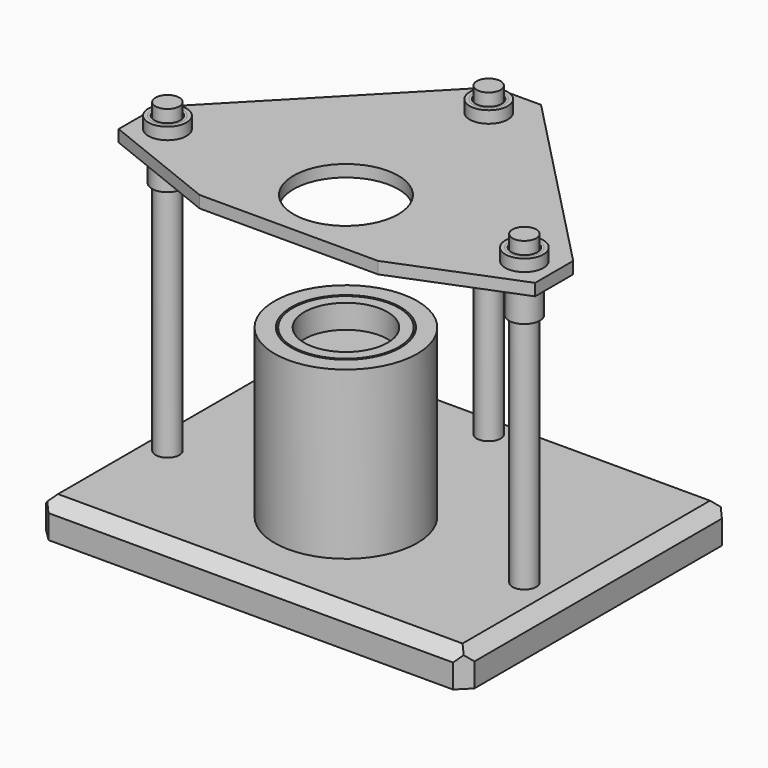
from build123d import *

# Parameters (mm, degrees)
F0_W           = 180
F0_H           = 140
F1_DEPTH       = 15
F2_R           = 11
F3_DEPTH       = 10
F4_R           = 3
F5_DEPTH       = 15
F6_R           = 7.5
F7_DEPTH       = 10
F9_START       = 130
F8_R           = 6.5
F8_R_2         = 22
F9_DEPTH       = 5
F10_W          = 2
F10_H          = 0.5
F13_START      = 1
F12_R          = 30
F13_DEPTH      = 70
F14_R          = 7.25
F15_DEPTH      = 10
F16_R          = 23
F17_DEPTH      = 60
F18_R          = 6.5
F18_R_2        = 5.5
F19_DEPTH      = 5
F19_DEPTH_BACK = 20
F20_SIZE       = 5
F21_SIZE       = 5
F22_R          = 8
F22_R_2        = 6.5
F23_DEPTH      = 5
F24_R          = 22.25
F25_DEPTH      = 30
F26_R          = 17.5
F27_DEPTH      = 10
F28_R          = 7.5
F29_DEPTH      = 15
F31_START      = 1
F30_R          = 5
F31_DEPTH      = 129


with BuildPart() as f1:
    # F0 (on Top) → F1 (new body)
    with BuildSketch(Plane.XY):
        with Locations((0, 20)):
            Rectangle(F0_W, F0_H)
    extrude(amount=F1_DEPTH)

    # F2 (on face) → F3 (cut)
    with BuildSketch(Plane.XY):
        with Locations((-75, 0)):
            Circle(F2_R)
        with Locations((0, 75)):
            Circle(F2_R)
        with Locations((75, 0)):
            Circle(F2_R)
    extrude(amount=F3_DEPTH, mode=Mode.SUBTRACT)

    # F4 (on face) → F5 (cut, through all)
    with BuildSketch(Plane.XY):
        with Locations((-75, 0)):
            Circle(F4_R)
        with Locations((0, 75)):
            Circle(F4_R)
        with Locations((75, 0)):
            Circle(F4_R)
    extrude(amount=F5_DEPTH, mode=Mode.SUBTRACT)

    # F6 (on face) → F7 (cut)
    with BuildSketch(Plane.XY.offset(15)):
        Circle(F6_R)
    extrude(amount=-F7_DEPTH, mode=Mode.SUBTRACT)

    # F20
    f20_edges = [f1.edges().sort_by_distance(p)[0] for p in [
        (0, -50, 15),
        (90, 20, 15),
        (0, 90, 15),
        (-90, 20, 15),
    ]]
    chamfer(f20_edges, length=F20_SIZE)

    # F21
    f21_edges = [f1.edges().sort_by_distance(p)[0] for p in [
        (90, -50, 5),
        (90, 90, 5),
        (-90, -50, 5),
        (-90, 90, 5),
    ]]
    chamfer(f21_edges, length=F21_SIZE)


with BuildPart() as f9:
    # F8 (on Top) → F9 (new body)
    with BuildSketch(Plane.XY.offset(F9_START)):
        Polygon((-37.5, -30), (37.5, -30), (87.5, -10), (87.5, 10), (10, 90), (-10, 90), (-87.5, 10), (-87.5, -10), align=None)
        with Locations((-75, 0)):
            Circle(F8_R, mode=Mode.SUBTRACT)
        Circle(F8_R_2, mode=Mode.SUBTRACT)
        with Locations((75, 0)):
            Circle(F8_R, mode=Mode.SUBTRACT)
        with Locations((0, 75)):
            Circle(F8_R, mode=Mode.SUBTRACT)
    extrude(amount=F9_DEPTH)

    # F10 (on Front) → F11 (revolve, cut)
    with BuildSketch(Plane.XZ):
        with Locations((-25.5, 130.25)):
            Rectangle(F10_W, F10_H)
    revolve(axis=Axis((0, 0, 97.1393696964), (0, 0, 1)), mode=Mode.SUBTRACT)


with BuildPart() as f13:
    # F12 (on face) → F13 (new body)
    with BuildSketch(Plane.XY.offset(15).offset(F13_START)):
        Circle(F12_R)
    extrude(amount=F13_DEPTH)

    # F14 (on face) → F15 (join)
    with BuildSketch(Plane(origin=(0, 0, 16), x_dir=(1, 0, 0), z_dir=(0, 0, -1))):
        Circle(F14_R)
    extrude(amount=F15_DEPTH)

    # F16 (on face) → F17 (cut)
    with BuildSketch(Plane.XY.offset(86)):
        Circle(F16_R)
    extrude(amount=-F17_DEPTH, mode=Mode.SUBTRACT)


with BuildPart() as f19:
    # F18 (on face) → F19 (new body, two sides)
    with BuildSketch(Plane.XY.offset(135)) as f19_sk:
        with Locations((-75, 0)):
            Circle(F18_R)
        with Locations((-75, 0)):
            Circle(F18_R_2, mode=Mode.SUBTRACT)
    extrude(amount=F19_DEPTH)
    extrude(f19_sk.sketch, amount=-F19_DEPTH_BACK)


with BuildPart() as f19b:
    # F18 (on face) → F19, piece 2 (new body, two sides)
    with BuildSketch(Plane.XY.offset(135)) as f19_2_sk:
        with Locations((0, 75)):
            Circle(F18_R)
        with Locations((0, 75)):
            Circle(F18_R_2, mode=Mode.SUBTRACT)
    extrude(amount=F19_DEPTH)
    extrude(f19_2_sk.sketch, amount=-F19_DEPTH_BACK)


with BuildPart() as f19c:
    # F18 (on face) → F19, piece 3 (new body, two sides)
    with BuildSketch(Plane.XY.offset(135)) as f19_3_sk:
        with Locations((75, 0)):
            Circle(F18_R)
        with Locations((75, 0)):
            Circle(F18_R_2, mode=Mode.SUBTRACT)
    extrude(amount=F19_DEPTH)
    extrude(f19_3_sk.sketch, amount=-F19_DEPTH_BACK)


with BuildPart() as f23:
    # F22 (on face) → F23 (new body)
    with BuildSketch(Plane.XY.offset(135)):
        with Locations((-75, 0)):
            Circle(F22_R)
        with Locations((-75, 0)):
            Circle(F22_R_2, mode=Mode.SUBTRACT)
    extrude(amount=F23_DEPTH)


with BuildPart() as f23b:
    # F22 (on face) → F23, piece 2 (new body)
    with BuildSketch(Plane.XY.offset(135)):
        with Locations((0, 75)):
            Circle(F22_R)
        with Locations((0, 75)):
            Circle(F22_R_2, mode=Mode.SUBTRACT)
    extrude(amount=F23_DEPTH)


with BuildPart() as f23c:
    # F22 (on face) → F23, piece 3 (new body)
    with BuildSketch(Plane.XY.offset(135)):
        with Locations((75, 0)):
            Circle(F22_R)
        with Locations((75, 0)):
            Circle(F22_R_2, mode=Mode.SUBTRACT)
    extrude(amount=F23_DEPTH)


with BuildPart() as f25:
    # F24 (on face) → F25 (new body)
    with BuildSketch(Plane.XY.offset(86)):
        Circle(F24_R)
    extrude(amount=-F25_DEPTH)

    # F26 (on face) → F27 (cut)
    with BuildSketch(Plane.XY.offset(86)):
        Circle(F26_R)
    extrude(amount=-F27_DEPTH, mode=Mode.SUBTRACT)

    # F28 (on face) → F29 (cut)
    with BuildSketch(Plane(origin=(0, 0, 56), x_dir=(1, 0, 0), z_dir=(0, 0, -1))):
        Circle(F28_R)
    extrude(amount=-F29_DEPTH, mode=Mode.SUBTRACT)


with BuildPart() as f31:
    # F30 (on face) → F31 (new body)
    with BuildSketch(Plane.XY.offset(15).offset(F31_START)):
        with Locations((-75, 0)):
            Circle(F30_R)
    extrude(amount=F31_DEPTH)


with BuildPart() as f31b:
    # F30 (on face) → F31, piece 2 (new body)
    with BuildSketch(Plane.XY.offset(15).offset(F31_START)):
        with Locations((0, 75)):
            Circle(F30_R)
    extrude(amount=F31_DEPTH)


with BuildPart() as f31c:
    # F30 (on face) → F31, piece 3 (new body)
    with BuildSketch(Plane.XY.offset(15).offset(F31_START)):
        with Locations((75, 0)):
            Circle(F30_R)
    extrude(amount=F31_DEPTH)


solid = Compound([f1.part, f9.part, f13.part, f19.part, f19b.part, f19c.part, f23.part, f23b.part, f23c.part, f25.part, f31.part, f31b.part, f31c.part])
